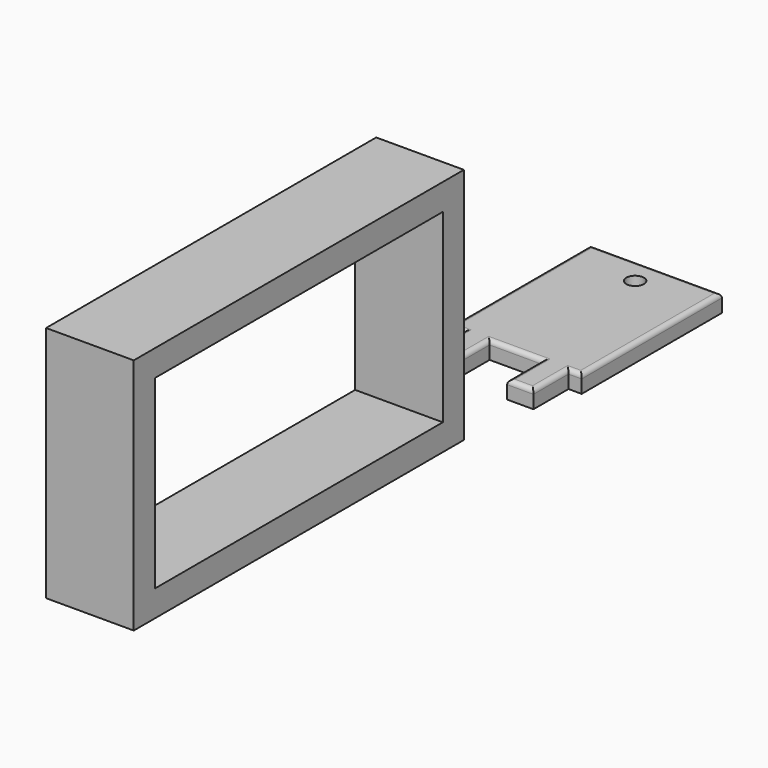
from build123d import *

# Parameters (mm, degrees)
F0_W     = 38.1
F0_H     = 50.8
F1_DEPTH = 5.08
F2_R     = 2.54
F3_DEPTH = 5.081
F4_W     = 7.62
F4_H     = 12.7
F5_DEPTH = 5.08
F6_R     = 1.27
F7_W     = 119.5536076081
F7_H     = 68.9181420021
F7_W_2   = 104.3136076081
F7_H_2   = 53.6781420021
F8_DEPTH = 25.4


with BuildPart() as f1:
    # F0 (on Top) → F1 (new body)
    with BuildSketch(Plane.XY):
        with Locations((11.7390617564, 23.2001445636)):
            Rectangle(F0_W, F0_H)
    extrude(amount=F1_DEPTH)

    # F2 (on face) → F3 (cut, through all)
    with BuildSketch(Plane.XY.offset(5.08)):
        with Locations((11.7390617564, 40.9801445636)):
            Circle(F2_R)
    extrude(amount=-F3_DEPTH, mode=Mode.SUBTRACT)

    # F4 (on face) → F5 (join, through all)
    with BuildSketch(Plane.XY.offset(5.08)):
        with Locations((23.1690617564, -8.5498554364)):
            Rectangle(F4_W, F4_H)
        with Locations((0.3090617564, -8.5498554364)):
            Rectangle(F4_W, F4_H)
    extrude(amount=-F5_DEPTH)

    # F6
    f6_edges = [f1.edges().sort_by_distance(p)[0] for p in [
        (-7.310938, 23.200145, 5.08),
        (11.739062, 48.600145, 5.08),
        (30.789062, 23.200145, 5.08),
        (28.884062, -2.199855, 5.08),
        (23.169062, -14.899855, 5.08),
        (19.359062, -8.549855, 5.08),
        (11.739062, -2.199855, 5.08),
        (4.119062, -8.549855, 5.08),
        (-3.500938, -8.549855, 5.08),
        (-5.405938, -2.199855, 5.08),
        (0.309062, -14.899855, 5.08),
        (26.979062, -8.549855, 5.08),
    ]]
    fillet(f6_edges, radius=F6_R)


with BuildPart() as f8:
    # F7 (on Right) → F8 (new body)
    with BuildSketch(Plane.YZ):
        with Locations((-97.8994980925, 35.5466438923)):
            Rectangle(F7_W, F7_H)
        with Locations((-97.8994980925, 35.5466438923)):
            Rectangle(F7_W_2, F7_H_2, mode=Mode.SUBTRACT)
    extrude(amount=F8_DEPTH)


solid = Compound([f1.part, f8.part])
